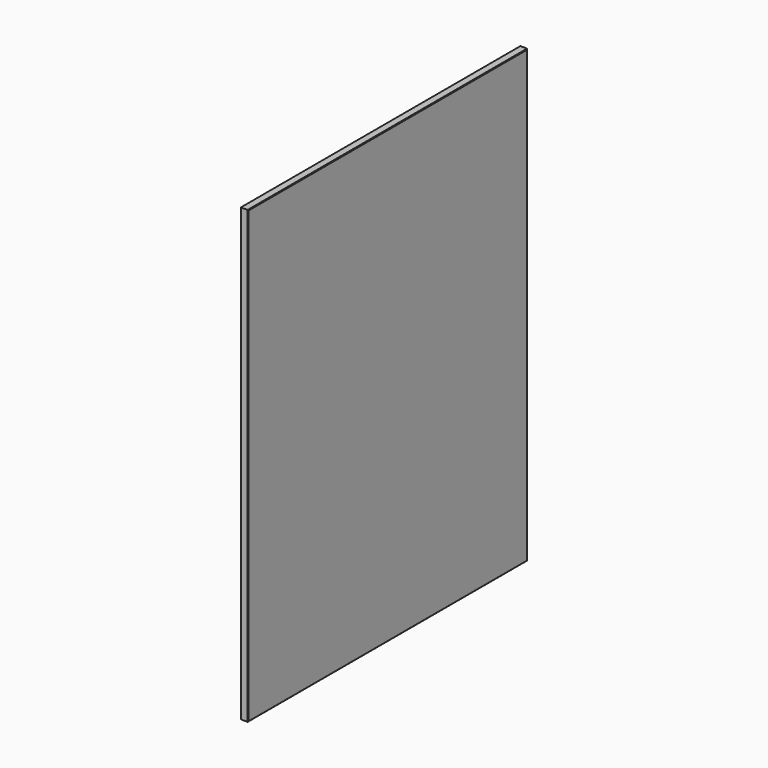
from build123d import *

# Parameters (mm, degrees)
F0_W     = 50.6520830095
F0_H     = 38.2762104273
F1_DEPTH = 14
F2_DEPTH = 2200
F3_DEPTH = 620
F4_DEPTH = 400
F5_DEPTH = 1000
F6_SIZE  = 1


with BuildPart() as f1:
    # F0 (on Right) → F1 (new body)
    with BuildSketch(Plane.YZ):
        with Locations((-25.3260415047, 19.1381052136)):
            Rectangle(F0_W, F0_H)
    extrude(amount=-F1_DEPTH)

    # F2 (add): a face of the model
    f2_faces = [f1.faces().sort_by_distance(p)[0] for p in [
        (-7, -25.3260415047, 0),
    ]]
    extrude(f2_faces, amount=-F2_DEPTH)

    # F3 (add): a face of the model
    f3_faces = [f1.faces().sort_by_distance(p)[0] for p in [
        (-7, 0, 1100),
    ]]
    extrude(f3_faces, amount=-F3_DEPTH)

    # F4 (cut): a face of the model
    f4_faces = [f1.faces().sort_by_distance(p)[0] for p in [
        (-7, -310, 2200),
    ]]
    extrude(f4_faces, amount=-F4_DEPTH, mode=Mode.SUBTRACT)

    # F5 (cut): a face of the model
    f5_faces = [f1.faces().sort_by_distance(p)[0] for p in [
        (-7, -310, 1800),
    ]]
    extrude(f5_faces, amount=-F5_DEPTH, mode=Mode.SUBTRACT)

    # F6
    f6_edges = [f1.edges().sort_by_distance(p)[0] for p in [
        (0, -310, 0),
        (0, -620, 400),
        (0, -310, 800),
        (0, 0, 400),
        (-14, -620, 400),
        (-14, -310, 800),
        (-14, 0, 400),
        (-14, -310, 0),
    ]]
    chamfer(f6_edges, length=F6_SIZE)


solid = f1.part
